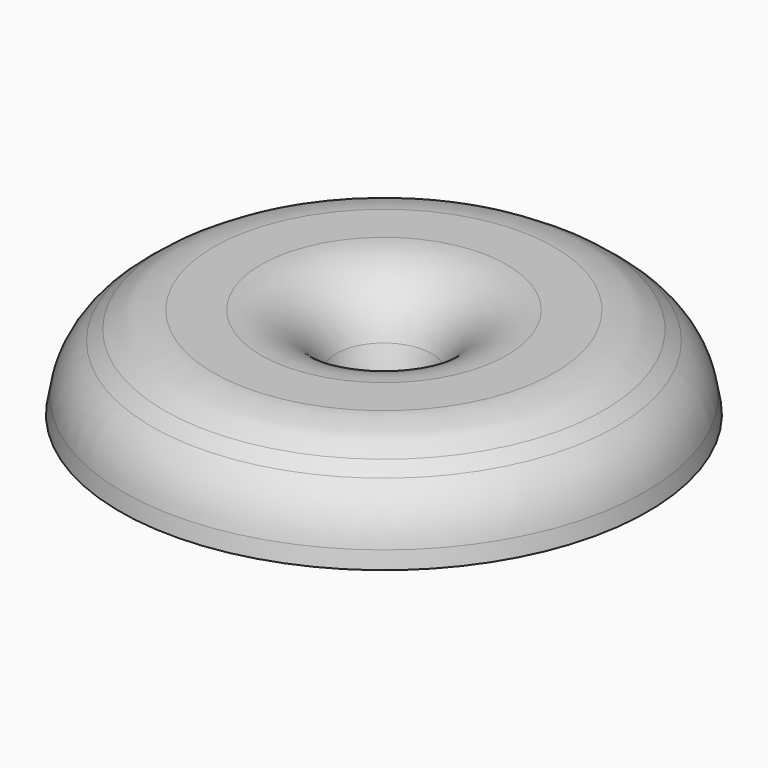
from build123d import *

# Parameters (mm, degrees)
F2_R   = 5
F2_R_2 = 2


with BuildPart() as f1:
    # F0 (on Front) → F1 (revolve)
    with BuildSketch(Plane.XZ):
        with BuildLine():
            Line((-46.5626491532, 34.7380191088), (-64.5524207617, 34.7380191088))
            ThreePointArc((-64.5524207617, 34.7380191088), (-74.4188193129, 33.0691712144), (-83.1875166342, 28.2482977508))
            Line((-83.1875166342, 28.2482977508), (-87.9970200386, 24.436111668))
            ThreePointArc((-87.9970200386, 24.436111668), (-95.1163936469, 16.3111280107), (-98.8962470082, 6.1911700773))
            Line((-98.8962470082, 6.1911700773), (-100, 0))
            Line((-100, 0), (-96.9526980361, 0))
            Line((-96.9526980361, 0), (-95.942814724, 5.6646363721))
            ThreePointArc((-95.942814724, 5.6646363721), (-92.5409466988, 14.7725985122), (-86.1335104514, 22.0850838038))
            Line((-86.1335104514, 22.0850838038), (-81.324007047, 25.8972698866))
            ThreePointArc((-81.324007047, 25.8972698866), (-73.4321794578, 30.2360560038), (-64.5524207617, 31.7380191088))
            Line((-64.5524207617, 31.7380191088), (-46.5626491532, 31.7380191088))
            ThreePointArc((-46.5626491532, 31.7380191088), (-30.80440398, 26.6623824761), (-20.9708348415, 13.3437753355))
            Line((-20.9708348415, 13.3437753355), (-18.1650745435, 5))
            Line((-18.1650745435, 5), (-15, 5))
            Line((-15, 5), (-18.1272999179, 14.2999704719))
            ThreePointArc((-18.1272999179, 14.2999704719), (-29.0534878496, 29.0984228502), (-46.5626491532, 34.7380191088))
        make_face()
    revolve(axis=Axis((0, 0, 26.7854109406), (0, 0, 1)))

    # F2 (on face) → F3 (join, up to the next surface of F1)
    with BuildSketch(Plane(origin=(0, 0, 0), x_dir=(1, 0, 0), z_dir=(0, 0, -1))):
        with Locations((80, 0)):
            Circle(F2_R)
        with Locations((80, 0)):
            Circle(F2_R_2, mode=Mode.SUBTRACT)
        with Locations((0, 80)):
            Circle(F2_R)
        with Locations((0, 80)):
            Circle(F2_R_2, mode=Mode.SUBTRACT)
        with Locations((-80, 0)):
            Circle(F2_R)
        with Locations((-80, 0)):
            Circle(F2_R_2, mode=Mode.SUBTRACT)
        with Locations((0, -80)):
            Circle(F2_R)
        with Locations((0, -80)):
            Circle(F2_R_2, mode=Mode.SUBTRACT)
    extrude(until=Until.NEXT, dir=(0, 0, 1))


solid = f1.part
